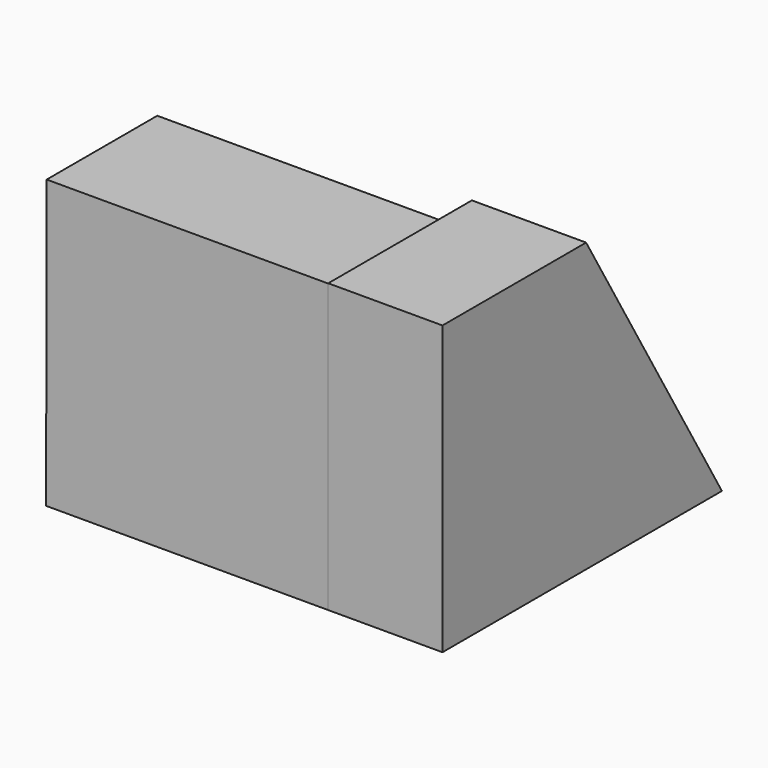
from build123d import *

# Parameters (mm, degrees)
F0_W     = 39.9214811623
F0_H     = 63.9728531241
F1_DEPTH = 25.4
F3_DEPTH = 62.738
F4_R     = 10.5479626422
F5_DEPTH = 43.18


with BuildPart() as f1:
    # F0 (on Right) → F1 (new body)
    with BuildSketch(Plane.YZ):
        with Locations((-19.9607405812, 31.9864265621)):
            Rectangle(F0_W, F0_H)
        Polygon((0, 63.9728531241), (0, 0), (37.7500206232, 0), align=None)
    extrude(amount=F1_DEPTH)

    # F2 (on Right) → F3 (join)
    with BuildSketch(Plane.YZ):
        Polygon((-39.7544465959, 63.8058185577), (-39.9214811623, 0), (25.3893956542, 0), (-9.0199168772, 63.8058185577), align=None)
    extrude(amount=-F3_DEPTH)

    # F4 (on face) → F5 (cut)
    with BuildSketch(Plane(origin=(0, 19.6691261726, 10.6072004872), x_dir=(-1, 0, 0), z_dir=(0, 0.8801695735, 0.4746593746))):
        with Locations((26.5113729984, 24.7412994504)):
            Circle(F4_R)
    extrude(amount=-F5_DEPTH, mode=Mode.SUBTRACT)


solid = f1.part
